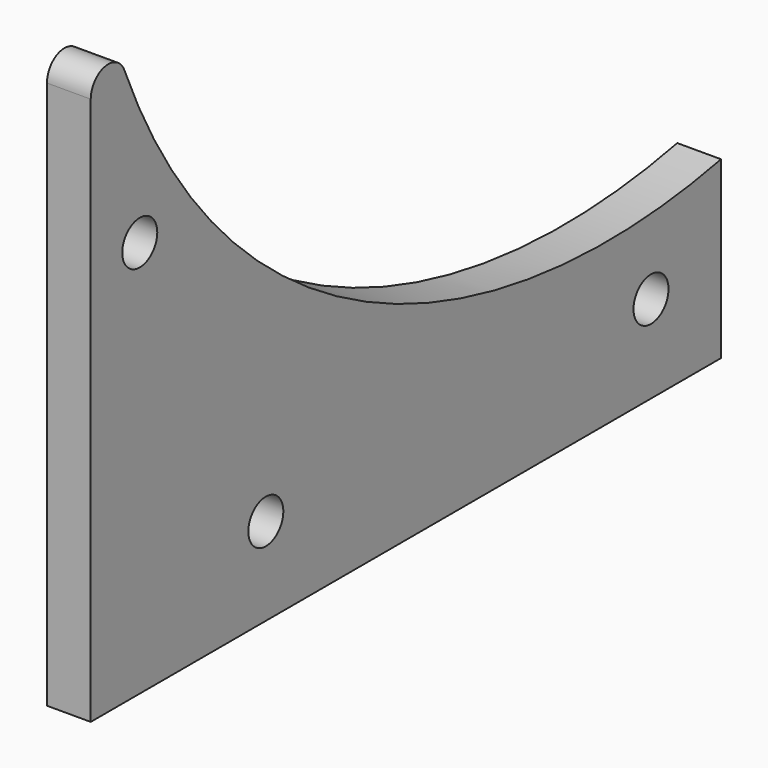
from build123d import *

# Parameters (mm, degrees)
F0_R     = 3.175
F1_DEPTH = 6.35


with BuildPart() as f1:
    # F0 (on Right) → F1 (new body)
    with BuildSketch(Plane.YZ):
        with BuildLine():
            Line((0, 79.533764), (0, 0))
            Line((0, 0), (114.3, 0))
            Line((114.3, 0), (114.3, 25.4))
            add(Edge.make_bspline(
                [(6.111348, 80.74144), (24.374448, 36.336482), (70.302435, 16.42094), (114.3, 25.4)],
                knots=[17.403974, 17.403974, 17.403974, 17.403974, 137.371504, 137.371504, 137.371504, 137.371504], degree=3))
            ThreePointArc((6.111348, 80.74144), (2.559485, 82.648529), (0, 79.533764))
        make_face()
        with Locations((31.75, 12.7)):
            Circle(F0_R, mode=Mode.SUBTRACT)
        with Locations((101.6, 12.7)):
            Circle(F0_R, mode=Mode.SUBTRACT)
        with Locations((8.89, 57.602018)):
            Circle(F0_R, mode=Mode.SUBTRACT)
    extrude(amount=F1_DEPTH)


solid = f1.part
